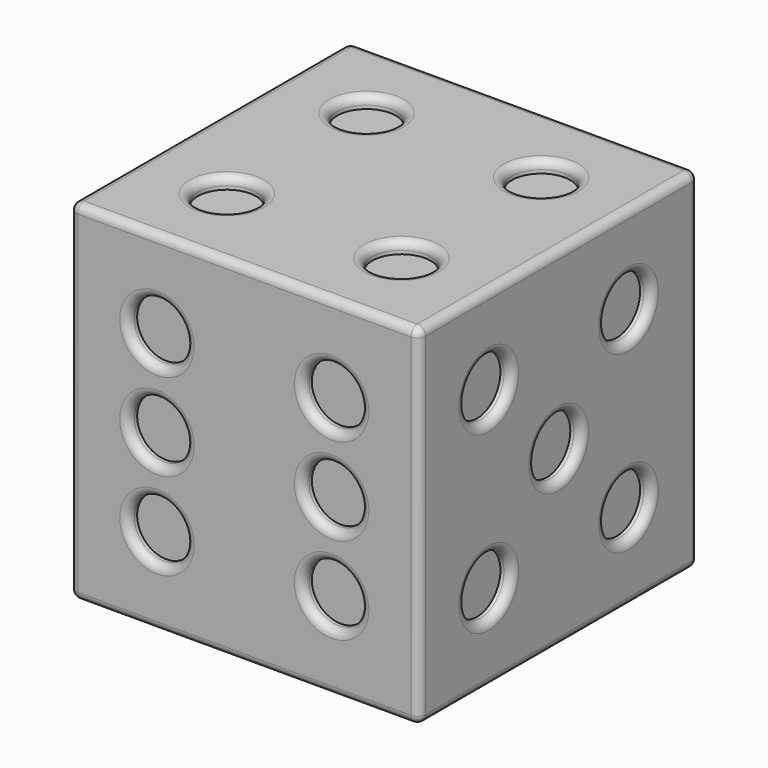
from build123d import *

# Parameters (mm, degrees)
F0_W      = 76.2
F0_H      = 76.2
F1_DEPTH  = 38.1
F2_DEPTH  = 38.1
F8_R      = 6.35
F9_DEPTH  = 2.54
F7_R      = 6.35
F10_DEPTH = 2.54
F6_R      = 6.35
F11_DEPTH = 2.54
F5_R      = 6.35
F12_DEPTH = 2.54
F4_R      = 6.35
F13_DEPTH = 2.54
F3_R      = 6.35
F14_DEPTH = 2.54
F15_R     = 1.778


with BuildPart() as f1:
    # F0 (on Top) → F1 (new body)
    with BuildSketch(Plane.XY):
        Rectangle(F0_W, F0_H)
    extrude(amount=F1_DEPTH)

    # F0 (on Top) → F2 (join)
    with BuildSketch(Plane.XY):
        Rectangle(F0_W, F0_H)
    extrude(amount=-F2_DEPTH)

    # F8 (on face) → F9 (cut)
    with BuildSketch(Plane.XY.offset(38.1)):
        with Locations((-19.05, -19.05)):
            Circle(F8_R)
        with Locations((19.05, 19.05)):
            Circle(F8_R)
        with Locations((-19.05, 19.05)):
            Circle(F8_R)
        with Locations((19.05, -19.05)):
            Circle(F8_R)
    extrude(amount=-F9_DEPTH, mode=Mode.SUBTRACT)

    # F7 (on face) → F10 (cut)
    with BuildSketch(Plane(origin=(0, 0, -38.1), x_dir=(1, 0, 0), z_dir=(0, 0, -1))):
        Circle(F7_R)
        with Locations((-19.05, 19.05)):
            Circle(F7_R)
        with Locations((19.05, -19.05)):
            Circle(F7_R)
    extrude(amount=-F10_DEPTH, mode=Mode.SUBTRACT)

    # F6 (on face) → F11 (cut)
    with BuildSketch(Plane.YZ.offset(38.1)):
        with Locations((19.05, 19.05)):
            Circle(F6_R)
        with Locations((19.05, -19.05)):
            Circle(F6_R)
        Circle(F6_R)
        with Locations((-19.05, -19.05)):
            Circle(F6_R)
        with Locations((-19.05, 19.05)):
            Circle(F6_R)
    extrude(amount=-F11_DEPTH, mode=Mode.SUBTRACT)

    # F5 (on face) → F12 (cut)
    with BuildSketch(Plane(origin=(-38.1, 0, 0), x_dir=(0, -1, 0), z_dir=(-1, 0, 0))):
        with Locations((-19.05, 19.05)):
            Circle(F5_R)
        with Locations((19.05, -19.05)):
            Circle(F5_R)
    extrude(amount=-F12_DEPTH, mode=Mode.SUBTRACT)

    # F4 (on face) → F13 (cut)
    with BuildSketch(Plane(origin=(0, 38.1, 0), x_dir=(-1, 0, 0), z_dir=(0, 1, 0))):
        Circle(F4_R)
    extrude(amount=-F13_DEPTH, mode=Mode.SUBTRACT)

    # F3 (on face) → F14 (cut)
    with BuildSketch(Plane.XZ.offset(38.1)):
        with Locations((19.05, 19.05)):
            Circle(F3_R)
        with Locations((-19.05, 19.05)):
            Circle(F3_R)
        with Locations((-19.05, 0)):
            Circle(F3_R)
        with Locations((19.05, 0)):
            Circle(F3_R)
        with Locations((19.05, -19.05)):
            Circle(F3_R)
        with Locations((-19.05, -19.05)):
            Circle(F3_R)
    extrude(amount=-F14_DEPTH, mode=Mode.SUBTRACT)

    # F15
    f15_edges = [f1.edges().sort_by_distance(p)[0] for p in [
        (0, -38.1, -38.1),
        (-38.1, 0, -38.1),
        (38.1, 0, -38.1),
        (0, 38.1, -38.1),
        (-25.4, -19.05, -38.1),
        (-6.35, 0, -38.1),
        (12.7, 19.05, -38.1),
        (-38.1, -38.1, 0),
        (0, -38.1, 38.1),
        (38.1, -38.1, 0),
        (-25.4, -38.1, 19.05),
        (12.7, -38.1, 19.05),
        (-25.4, -38.1, 0),
        (-25.4, -38.1, -19.05),
        (12.7, -38.1, 0),
        (12.7, -38.1, -19.05),
        (-38.1, 38.1, 0),
        (-38.1, 0, 38.1),
        (-38.1, 25.4, 19.05),
        (-38.1, -12.7, -19.05),
        (0, 38.1, 38.1),
        (38.1, 38.1, 0),
        (6.35, 38.1, 0),
        (38.1, 0, 38.1),
        (38.1, -25.4, 19.05),
        (38.1, 12.7, 19.05),
        (38.1, -25.4, -19.05),
        (38.1, -6.35, 0),
        (38.1, 12.7, -19.05),
        (-25.4, -19.05, 38.1),
        (12.7, -19.05, 38.1),
        (-25.4, 19.05, 38.1),
        (12.7, 19.05, 38.1),
    ]]
    fillet(f15_edges, radius=F15_R)


solid = f1.part
